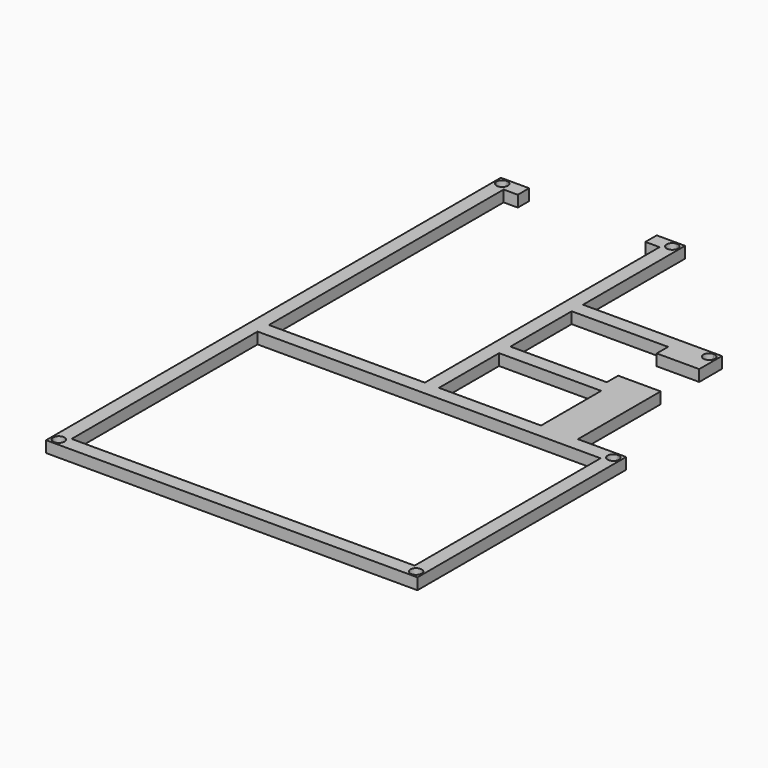
from build123d import *

# Parameters (mm, degrees)
F0_W     = 5
F0_H     = 5
F1_DEPTH = 4


with BuildPart() as f1:
    # F0 (on Top) → F1 (new body)
    with BuildSketch(Plane.XY):
        with BuildLine():
            Line((82.7990943193, -150.3260023594), (82.7990943193, -150.8260023594))
            Line((82.7990943193, -150.8260023594), (85.2990943193, -150.8260023594))
            Line((85.2990943193, -150.8260023594), (85.2990943193, -148.3260023594))
            Line((85.2990943193, -148.3260023594), (84.7990943193, -148.3260023594))
            ThreePointArc((84.7990943193, -148.3260023594), (84.2133078817, -149.7402159218), (82.7990943193, -150.3260023594))
        make_face()
        with BuildLine():
            Line((-45.2009056807, -148.3260023594), (-45.7009056807, -148.3260023594))
            Line((-45.7009056807, -148.3260023594), (-45.7009056807, -150.8260023594))
            Line((-45.7009056807, -150.8260023594), (-43.2009056807, -150.8260023594))
            Line((-43.2009056807, -150.8260023594), (-43.2009056807, -150.3260023594))
            ThreePointArc((-43.2009056807, -150.3260023594), (-44.615119243, -149.7402159218), (-45.2009056807, -148.3260023594))
        make_face()
        with BuildLine():
            Line((-43.2009056807, 49.1739976406), (-43.2009056807, 49.6739976406))
            Line((-43.2009056807, 49.6739976406), (-45.7009056807, 49.6739976406))
            Line((-45.7009056807, 49.6739976406), (-45.7009056807, 47.1739976406))
            Line((-45.7009056807, 47.1739976406), (-45.2009056807, 47.1739976406))
            ThreePointArc((-45.2009056807, 47.1739976406), (-44.615119243, 48.588211203), (-43.2009056807, 49.1739976406))
        make_face()
        with BuildLine():
            Line((85.2990943193, -61.3260023594), (85.2990943193, -58.8260023594))
            Line((85.2990943193, -58.8260023594), (82.7990943193, -58.8260023594))
            Line((82.7990943193, -58.8260023594), (82.7990943193, -59.3260023594))
            ThreePointArc((82.7990943193, -59.3260023594), (84.2133078817, -59.911788797), (84.7990943193, -61.3260023594))
            Line((84.7990943193, -61.3260023594), (85.2990943193, -61.3260023594))
        make_face()
        with BuildLine():
            Line((19.2990943193, 49.6739976406), (16.7990943193, 49.6739976406))
            Line((16.7990943193, 49.6739976406), (16.7990943193, 49.1739976406))
            ThreePointArc((16.7990943193, 49.1739976406), (18.2133078817, 48.588211203), (18.7990943193, 47.1739976406))
            Line((18.7990943193, 47.1739976406), (19.2990943193, 47.1739976406))
            Line((19.2990943193, 47.1739976406), (19.2990943193, 49.6739976406))
        make_face()
        with BuildLine():
            Line((80.2990943193, -63.8260023594), (85.2990943193, -63.8260023594))
            Line((85.2990943193, -63.8260023594), (85.2990943193, -61.3260023594))
            Line((85.2990943193, -61.3260023594), (84.7990943193, -61.3260023594))
            ThreePointArc((84.7990943193, -61.3260023594), (81.384880757, -62.7402159218), (82.7990943193, -59.3260023594))
            Line((82.7990943193, -59.3260023594), (82.7990943193, -58.8260023594))
            Line((82.7990943193, -58.8260023594), (80.2990943193, -58.8260023594))
            Line((80.2990943193, -58.8260023594), (80.2990943193, -63.8260023594))
        make_face()
        with BuildLine():
            Line((14.2990943193, 49.6739976406), (14.2990943193, 44.6739976406))
            Line((14.2990943193, 44.6739976406), (16.7990943193, 44.6739976406))
            Line((16.7990943193, 44.6739976406), (19.2990943193, 44.6739976406))
            Line((19.2990943193, 44.6739976406), (19.2990943193, 47.1739976406))
            Line((19.2990943193, 47.1739976406), (18.7990943193, 47.1739976406))
            ThreePointArc((18.7990943193, 47.1739976406), (15.384880757, 45.7597840782), (16.7990943193, 49.1739976406))
            Line((16.7990943193, 49.1739976406), (16.7990943193, 49.6739976406))
            Line((16.7990943193, 49.6739976406), (14.2990943193, 49.6739976406))
        make_face()
        with BuildLine():
            Line((-37.7009056807, -58.8260023594), (-40.7009056807, -58.8260023594))
            Line((-40.7009056807, -58.8260023594), (-40.7009056807, -52.8260023594))
            Line((-40.7009056807, -52.8260023594), (-40.7009056807, 28.4739976406))
            Line((-40.7009056807, 28.4739976406), (-40.7009056807, 44.6739976406))
            Line((-40.7009056807, 44.6739976406), (-40.7009056807, 49.6739976406))
            Line((-40.7009056807, 49.6739976406), (-43.2009056807, 49.6739976406))
            Line((-43.2009056807, 49.6739976406), (-43.2009056807, 49.1739976406))
            ThreePointArc((-43.2009056807, 49.1739976406), (-41.7866921183, 48.588211203), (-41.2009056807, 47.1739976406))
            ThreePointArc((-41.2009056807, 47.1739976406), (-43.2009056807, 45.1739976406), (-45.2009056807, 47.1739976406))
            Line((-45.2009056807, 47.1739976406), (-45.7009056807, 47.1739976406))
            Line((-45.7009056807, 47.1739976406), (-45.7009056807, -148.3260023594))
            Line((-45.7009056807, -148.3260023594), (-45.2009056807, -148.3260023594))
            ThreePointArc((-45.2009056807, -148.3260023594), (-43.2009056807, -146.3260023594), (-41.2009056807, -148.3260023594))
            ThreePointArc((-41.2009056807, -148.3260023594), (-41.7866921183, -149.7402159218), (-43.2009056807, -150.3260023594))
            Line((-43.2009056807, -150.3260023594), (-43.2009056807, -150.8260023594))
            Line((-43.2009056807, -150.8260023594), (82.7990943193, -150.8260023594))
            Line((82.7990943193, -150.8260023594), (82.7990943193, -150.3260023594))
            ThreePointArc((82.7990943193, -150.3260023594), (81.384880757, -146.911788797), (84.7990943193, -148.3260023594))
            Line((84.7990943193, -148.3260023594), (85.2990943193, -148.3260023594))
            Line((85.2990943193, -148.3260023594), (85.2990943193, -63.8260023594))
            Line((85.2990943193, -63.8260023594), (80.2990943193, -63.8260023594))
            Line((80.2990943193, -63.8260023594), (80.2990943193, -58.8260023594))
            Line((80.2990943193, -58.8260023594), (68.2990943193, -58.8260023594))
            Line((68.2990943193, -58.8260023594), (68.2990943193, -22.3260023594))
            Line((68.2990943193, -22.3260023594), (63.2990943193, -22.3260023594))
            Line((63.2990943193, -22.3260023594), (53.2990943193, -22.3260023594))
            Line((53.2990943193, -22.3260023594), (53.2990943193, -25.3760023594))
            Line((53.2990943193, -25.3760023594), (53.2990943193, -27.3260023594))
            Line((53.2990943193, -27.3260023594), (51.3490943193, -27.3260023594))
            Line((51.3490943193, -27.3260023594), (28.5490943193, -27.3260023594))
            Line((28.5490943193, -27.3260023594), (19.2990943193, -27.3260023594))
            Line((19.2990943193, -27.3260023594), (19.2990943193, -25.3760023594))
            Line((19.2990943193, -25.3760023594), (19.2990943193, -2.2760023594))
            Line((19.2990943193, -2.2760023594), (19.2990943193, -0.3260023594))
            Line((19.2990943193, -0.3260023594), (14.2990943193, -0.3260023594))
            Line((14.2990943193, -0.3260023594), (14.2990943193, -27.3260023594))
            Line((14.2990943193, -27.3260023594), (14.2990943193, -32.3260023594))
            Line((14.2990943193, -32.3260023594), (14.2990943193, -47.2260023594))
            Line((14.2990943193, -47.2260023594), (14.2990943193, -58.8260023594))
            Line((14.2990943193, -58.8260023594), (11.2990943193, -58.8260023594))
            Line((11.2990943193, -58.8260023594), (-37.7009056807, -58.8260023594))
        make_face()
        Polygon((76.8990943193, -63.8260023594), (80.2990943193, -63.8260023594), (80.2990943193, -67.2260023594), (80.2990943193, -142.4260023594), (80.2990943193, -145.8260023594), (76.8990943193, -145.8260023594), (-37.3009056807, -145.8260023594), (-40.7009056807, -145.8260023594), (-40.7009056807, -142.4260023594), (-40.7009056807, -67.2260023594), (-40.7009056807, -63.8260023594), (-37.3009056807, -63.8260023594), (14.2990943193, -63.8260023594), (19.2990943193, -63.8260023594), align=None, mode=Mode.SUBTRACT)
        Polygon((53.5990943193, -58.8260023594), (19.2990943193, -58.8260023594), (19.2990943193, -32.3260023594), (53.5990943193, -32.3260023594), (55.2990943193, -32.3260023594), (55.2990943193, -34.0260023594), (55.2990943193, -57.1260023594), (55.2990943193, -58.8260023594), align=None, mode=Mode.SUBTRACT)
        with Locations((16.7990943193, 2.1739976406)):
            Rectangle(F0_W, F0_H)
        Polygon((16.7990943193, 44.6739976406), (14.2990943193, 44.6739976406), (14.2990943193, 29.8739976406), (14.2990943193, 4.6739976406), (19.2990943193, 4.6739976406), (19.2990943193, 44.6739976406), align=None)
        with BuildLine():
            Line((19.2990943193, 4.6739976406), (19.2990943193, -0.3260023594))
            Line((19.2990943193, -0.3260023594), (28.5490943193, -0.3260023594))
            Line((28.5490943193, -0.3260023594), (51.3490943193, -0.3260023594))
            Line((51.3490943193, -0.3260023594), (53.2990943193, -0.3260023594))
            Line((53.2990943193, -0.3260023594), (53.2990943193, -2.2760023594))
            Line((53.2990943193, -2.2760023594), (53.2990943193, -5.3260023594))
            Line((53.2990943193, -5.3260023594), (63.2990943193, -5.3260023594))
            Line((63.2990943193, -5.3260023594), (68.2990943193, -5.3260023594))
            Line((68.2990943193, -5.3260023594), (68.2990943193, 2.1739976406))
            Line((68.2990943193, 2.1739976406), (67.7990943193, 2.1739976406))
            ThreePointArc((67.7990943193, 2.1739976406), (64.384880757, 0.7597840782), (65.7990943193, 4.1739976406))
            Line((65.7990943193, 4.1739976406), (65.7990943193, 4.6739976406))
            Line((65.7990943193, 4.6739976406), (19.2990943193, 4.6739976406))
        make_face()
        with BuildLine():
            Line((68.2990943193, 4.6739976406), (65.7990943193, 4.6739976406))
            Line((65.7990943193, 4.6739976406), (65.7990943193, 4.1739976406))
            ThreePointArc((65.7990943193, 4.1739976406), (67.2133078817, 3.588211203), (67.7990943193, 2.1739976406))
            Line((67.7990943193, 2.1739976406), (68.2990943193, 2.1739976406))
            Line((68.2990943193, 2.1739976406), (68.2990943193, 4.6739976406))
        make_face()
        with Locations((-38.2009056807, 47.1739976406)):
            Rectangle(F0_W, F0_H)
        with Locations((11.7990943193, 47.1739976406)):
            Rectangle(F0_W, F0_H)
    extrude(amount=-F1_DEPTH)


solid = f1.part
